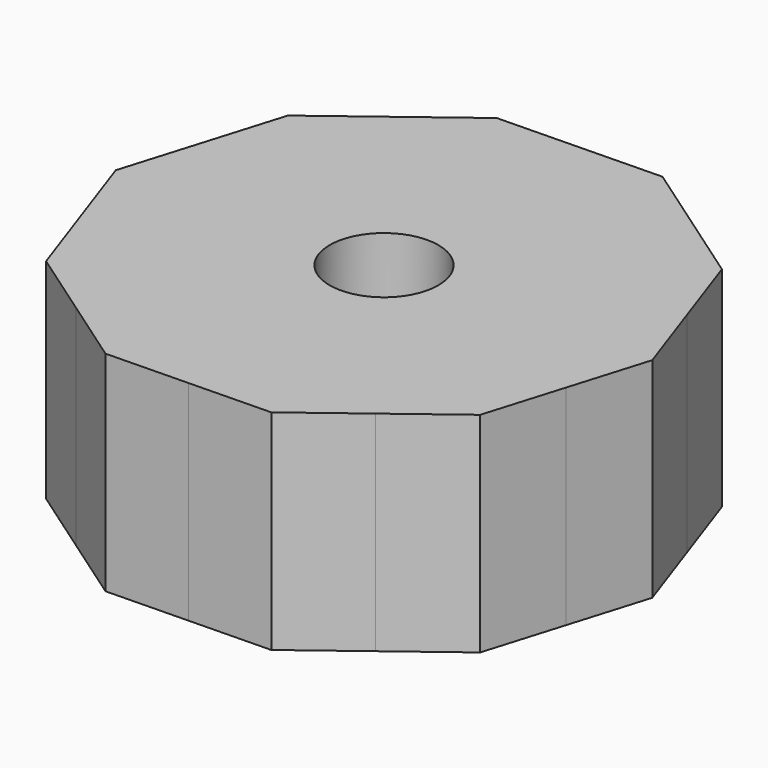
from build123d import *

# Parameters (mm, degrees)
F0_R          = 2.6
F1_DEPTH      = 10
F3_DEPTH      = 10
F3_DEPTH_BACK = 5


with BuildPart() as f1:
    # F0 (on Top) → F1 (new body)
    with BuildSketch(Plane.XY):
        with BuildLine():
            ThreePointArc((11.4867969381, -3.471814526), (11.8710059232, -1.7547701763), (12, 0))
            ThreePointArc((12, 0), (11.8322513458, 1.9994569485), (11.3336953185, 3.9430128617))
            ThreePointArc((11.3336953185, 3.9430128617), (9.5605268033, 7.2523325381), (6.8515073127, 9.8517433759))
            ThreePointArc((6.8515073127, 9.8517433759), (3.4718145374, 11.4867969347), (-0.2477236365, 11.9974427692))
            ThreePointArc((-0.2477236365, 11.9974427692), (-3.9430129531, 11.3336952867), (-7.2523326742, 9.5605267001))
            ThreePointArc((-7.2523326742, 9.5605267001), (-9.8517434045, 6.8515072715), (-11.4867969107, 3.4718146166))
            ThreePointArc((-11.4867969107, 3.4718146166), (-11.997442771, -0.2477235484), (-11.3336953377, -3.9430128064))
            ThreePointArc((-11.3336953377, -3.9430128064), (-9.5605268496, -7.2523324771), (-6.8515073904, -9.8517433218))
            ThreePointArc((-6.8515073904, -9.8517433218), (-3.4718145971, -11.4867969166), (0.2477236065, -11.9974427698))
            ThreePointArc((0.2477236065, -11.9974427698), (3.9430128215, -11.3336953325), (7.2523324761, -9.5605268504))
            ThreePointArc((7.2523324761, -9.5605268504), (9.8517433606, -6.8515073347), (11.4867969381, -3.471814526))
        make_face()
        Circle(F0_R, mode=Mode.SUBTRACT)
        with BuildLine():
            ThreePointArc((-11.3336953377, -3.9430128064), (-11.997442771, -0.2477235484), (-11.4867969107, 3.4718146166))
            Line((-11.4867969107, 3.4718146166), (-12.6148578594, -0.2604720387))
            Line((-12.6148578594, -0.2604720387), (-11.3336953377, -3.9430128064))
        make_face()
        with BuildLine():
            ThreePointArc((-11.4867969107, 3.4718146166), (-9.8517434045, 6.8515072715), (-7.2523326742, 9.5605267001))
            Line((-7.2523326742, 9.5605267001), (-10.3587360129, 7.2041011037))
            Line((-10.3587360129, 7.2041011037), (-11.4867969107, 3.4718146166))
        make_face()
        with BuildLine():
            ThreePointArc((-0.2477236365, 11.9974427692), (3.4718145374, 11.4867969347), (6.8515073127, 9.8517433759))
            Line((6.8515073127, 9.8517433759), (3.6504818305, 12.0779330558))
            Line((3.6504818305, 12.0779330558), (-0.2477236365, 11.9974427692))
        make_face()
        with BuildLine():
            ThreePointArc((-7.2523326742, 9.5605267001), (-3.9430129531, 11.3336952867), (-0.2477236365, 11.9974427692))
            Line((-0.2477236365, 11.9974427692), (-4.1459290899, 11.9169524828))
            Line((-4.1459290899, 11.9169524828), (-7.2523326742, 9.5605267001))
        make_face()
        with BuildLine():
            ThreePointArc((11.3336953185, 3.9430128617), (11.8322513458, 1.9994569485), (12, 0))
            ThreePointArc((12, 0), (11.8710059232, -1.7547701763), (11.4867969381, -3.471814526))
            Line((11.4867969381, -3.471814526), (12.6148578594, 0.2604720387))
            Line((12.6148578594, 0.2604720387), (11.3336953185, 3.9430128617))
        make_face()
        with BuildLine():
            Line((10.3587360129, -7.2041011037), (11.4867969381, -3.471814526))
            ThreePointArc((11.4867969381, -3.471814526), (9.8517433606, -6.8515073347), (7.2523324761, -9.5605268504))
            Line((7.2523324761, -9.5605268504), (10.3587360129, -7.2041011037))
        make_face()
        with BuildLine():
            Line((4.1459290899, -11.9169524828), (7.2523324761, -9.5605268504))
            ThreePointArc((7.2523324761, -9.5605268504), (3.9430128215, -11.3336953325), (0.2477236065, -11.9974427698))
            Line((0.2477236065, -11.9974427698), (4.1459290899, -11.9169524828))
        make_face()
        with BuildLine():
            Line((-3.6504818305, -12.0779330558), (0.2477236065, -11.9974427698))
            ThreePointArc((0.2477236065, -11.9974427698), (-3.4718145971, -11.4867969166), (-6.8515073904, -9.8517433218))
            Line((-6.8515073904, -9.8517433218), (-3.6504818305, -12.0779330558))
        make_face()
        with BuildLine():
            ThreePointArc((6.8515073127, 9.8517433759), (9.5605268033, 7.2523325381), (11.3336953185, 3.9430128617))
            Line((11.3336953185, 3.9430128617), (10.0525327669, 7.6255537154))
            Line((10.0525327669, 7.6255537154), (6.8515073127, 9.8517433759))
        make_face()
        with BuildLine():
            Line((-10.0525327669, -7.6255537154), (-6.8515073904, -9.8517433218))
            ThreePointArc((-6.8515073904, -9.8517433218), (-9.5605268496, -7.2523324771), (-11.3336953377, -3.9430128064))
            Line((-11.3336953377, -3.9430128064), (-10.0525327669, -7.6255537154))
        make_face()
    extrude(amount=F1_DEPTH)

    # F2 (on Top) → F3 (cut, two sides)
    with BuildSketch(Plane.XY) as f3_sk:
        Polygon((0.4149270205, 4.6001270527), (-3.776363378, 2.6594008668), (-4.1912903985, -1.9407261859), (-0.4149270205, -4.6001270527), (3.776363378, -2.6594008668), (4.1912903985, 1.9407261859), align=None)
    extrude(amount=-F3_DEPTH, mode=Mode.SUBTRACT)
    extrude(f3_sk.sketch, amount=F3_DEPTH_BACK, mode=Mode.SUBTRACT)


solid = f1.part
